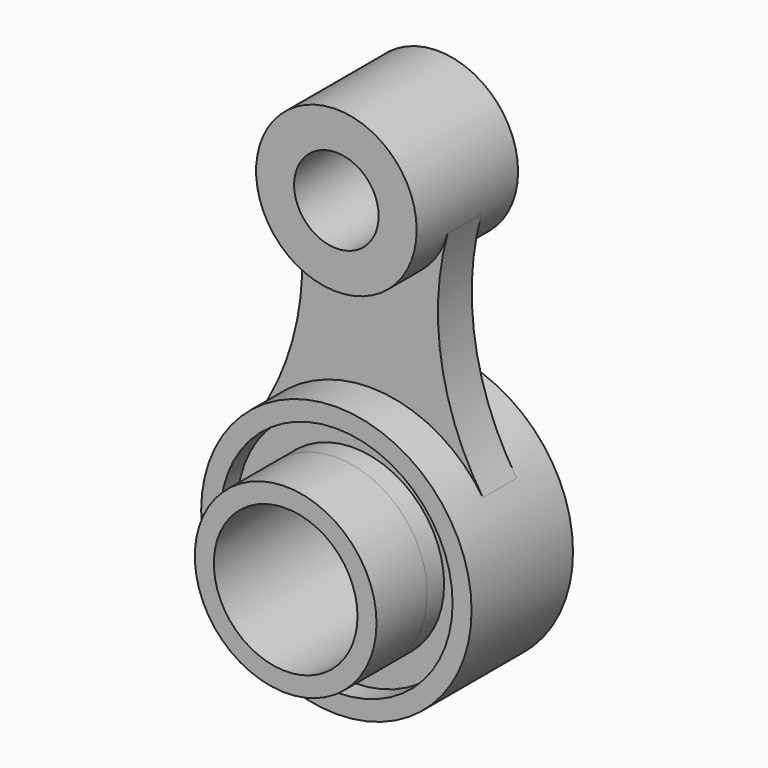
from build123d import *

# Parameters (mm, degrees)
SKETCH_R        = 32
PAD_DEPTH       = 15
PAD001_DEPTH    = 5
SKETCH002_R     = 19
PAD002_DEPTH    = 15
SKETCH003_R     = 27.5
SKETCH003_R_2   = 21.5
POCKET_DEPTH    = 5
SKETCH004_R     = 21.5
PAD003_DEPTH    = 15
SKETCH005_R     = 17
POCKET001_DEPTH = 45.001
SKETCH006_R     = 10
POCKET002_DEPTH = 30.001


with BuildPart() as part:
    # Sketch → Pad (new body, symmetric)
    with BuildSketch(Plane.XZ):
        Circle(SKETCH_R)
    extrude(amount=PAD_DEPTH, both=True)

    # Sketch001 → Pad001 (join, symmetric)
    with BuildSketch(Plane.XZ):
        with BuildLine():
            ThreePointArc((26.6782831974, 17.6711404736), (-1.75595e-05, 32), (-26.678302591, 17.671111195))
            ThreePointArc((-26.678302591, 17.671111195), (-16.8367727335, 42.9140409584), (-18.3212438006, 69.9669069549))
            ThreePointArc((-18.3212438006, 69.9669069549), (-1.6382e-05, 56), (18.3212351214, 69.9668753614))
            ThreePointArc((18.3212351214, 69.9668753614), (16.8367725476, 42.9140421212), (26.6782831975, 17.6711404736))
        make_face()
    extrude(amount=PAD001_DEPTH, both=True)

    # Sketch002 → Pad002 (join, symmetric)
    with BuildSketch(Plane.XZ):
        with Locations((0, 75)):
            Circle(SKETCH002_R)
    extrude(amount=PAD002_DEPTH, both=True)

    # Sketch003 (on Face10 of Pad002) → Pocket (cut)
    with BuildSketch(Plane.XZ.offset(15)):
        Circle(SKETCH003_R)
        Circle(SKETCH003_R_2, mode=Mode.SUBTRACT)
    extrude(amount=-POCKET_DEPTH, mode=Mode.SUBTRACT)

    # Sketch004 (on Face14 of Pocket) → Pad003 (join)
    with BuildSketch(Plane.XZ.offset(15)):
        Circle(SKETCH004_R)
    extrude(amount=PAD003_DEPTH)

    # Sketch005 (on Face15 of Pad003) → Pocket001 (cut, through all)
    with BuildSketch(Plane.XZ.offset(30)):
        Circle(SKETCH005_R)
    extrude(amount=-POCKET001_DEPTH, mode=Mode.SUBTRACT)

    # Sketch006 (on Face3 of Pocket001) → Pocket002 (cut, through all)
    with BuildSketch(Plane.XZ.offset(15)):
        with Locations((0, 75)):
            Circle(SKETCH006_R)
    extrude(amount=-POCKET002_DEPTH, mode=Mode.SUBTRACT)


solid = part.part
